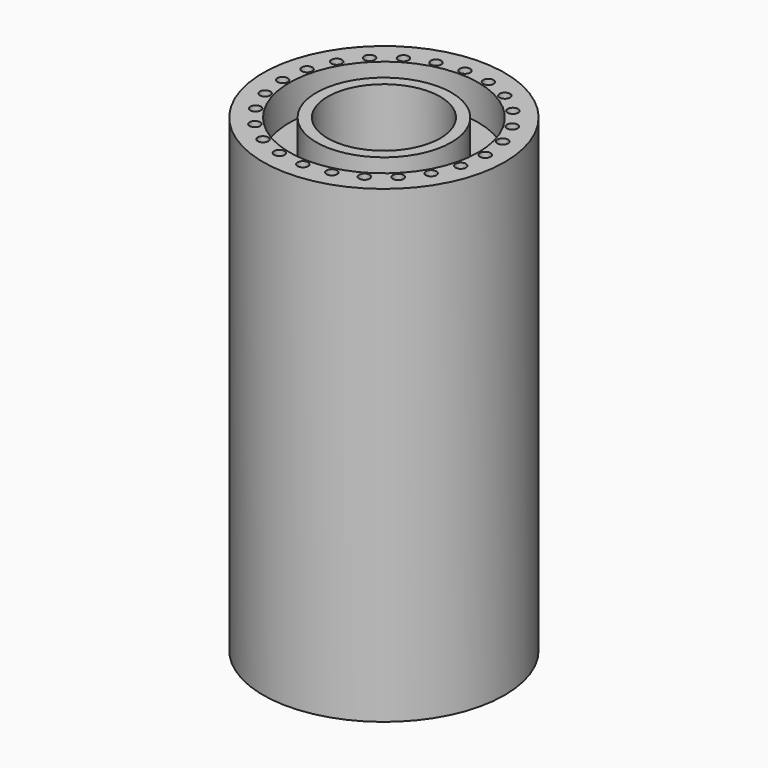
from build123d import *

# Parameters (mm, degrees)
F2_R     = 8.05
F2_R_2   = 5.75
F3_DEPTH = 3
F4_R     = 0.45
F5_DEPTH = 25


with BuildPart() as f1:
    # F0 (on Front) → F1 (revolve)
    with BuildSketch(Plane.XZ):
        Polygon((9.3, 0), (10.3, 0), (10.3, 40), (4.8, 40), (4.8, 19.226726), (9.3, 35), align=None)
    revolve(axis=Axis((0, 0, 20), (0, 0, -1)))

    # F2 (on face) → F3 (cut)
    with BuildSketch(Plane.XY.offset(40)):
        Circle(F2_R)
        Circle(F2_R_2, mode=Mode.SUBTRACT)
    extrude(amount=-F3_DEPTH, mode=Mode.SUBTRACT)

    # F4 (on face) → F5 (cut)
    with BuildSketch(Plane.XY.offset(40)):
        with Locations((0, 8.638292)):
            Circle(F4_R)
        with Locations((-2.235754, 8.343949)):
            Circle(F4_R)
        with Locations((-4.319146, 7.48098)):
            Circle(F4_R)
        with Locations((-6.108195, 6.108195)):
            Circle(F4_R)
        with Locations((-7.48098, 4.319146)):
            Circle(F4_R)
        with Locations((-8.343949, 2.235754)):
            Circle(F4_R)
        with Locations((-8.638292, 0)):
            Circle(F4_R)
        with Locations((-8.343949, -2.235754)):
            Circle(F4_R)
        with Locations((-7.48098, -4.319146)):
            Circle(F4_R)
        with Locations((-6.108195, -6.108195)):
            Circle(F4_R)
        with Locations((-4.319146, -7.48098)):
            Circle(F4_R)
        with Locations((-2.235754, -8.343949)):
            Circle(F4_R)
        with Locations((0, -8.638292)):
            Circle(F4_R)
        with Locations((2.235754, -8.343949)):
            Circle(F4_R)
        with Locations((4.319146, -7.48098)):
            Circle(F4_R)
        with Locations((6.108195, -6.108195)):
            Circle(F4_R)
        with Locations((7.48098, -4.319146)):
            Circle(F4_R)
        with Locations((8.343949, -2.235754)):
            Circle(F4_R)
        with Locations((8.638292, 0)):
            Circle(F4_R)
        with Locations((8.343949, 2.235754)):
            Circle(F4_R)
        with Locations((7.48098, 4.319146)):
            Circle(F4_R)
        with Locations((6.108195, 6.108195)):
            Circle(F4_R)
        with Locations((4.319146, 7.48098)):
            Circle(F4_R)
        with Locations((2.235754, 8.343949)):
            Circle(F4_R)
    extrude(amount=-F5_DEPTH, mode=Mode.SUBTRACT)


solid = f1.part
